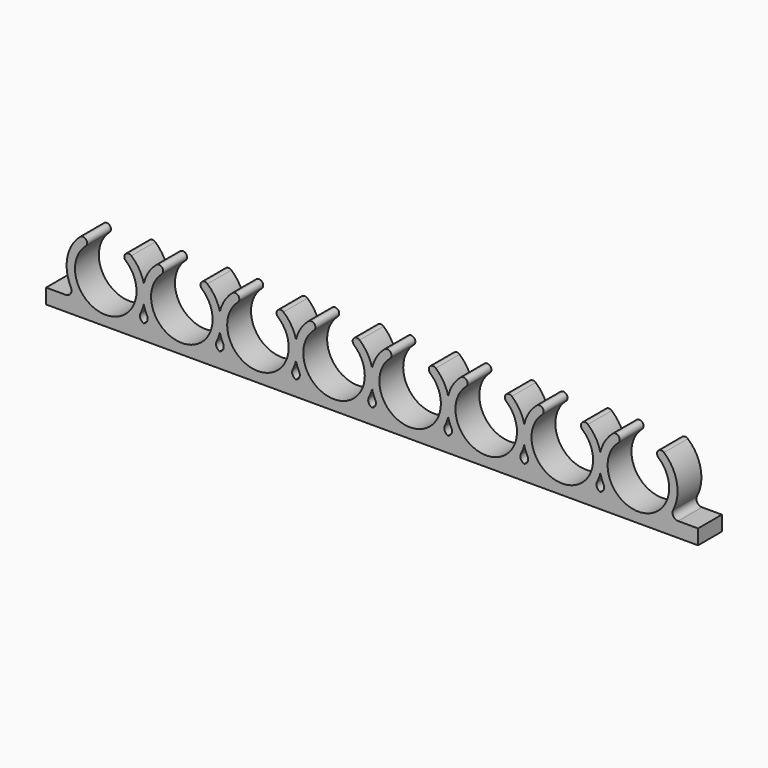
from build123d import *

# Parameters (mm, degrees)
F1_DEPTH = 8


with BuildPart() as f1:
    # F0 (on Front) → F1 (new body)
    with BuildSketch(Plane.XZ):
        with BuildLine():
            Line((0, 4), (0, 0))
            Line((0, 0), (20.4, 0))
            Line((20.4, 0), (20.4, 4))
            Line((20.4, 4), (25.7346354961, 4))
            ThreePointArc((25.7346354961, 4), (25.970242268, 4.0186190736), (26.2, 4.0740140679))
            ThreePointArc((26.2, 4.0740140679), (25.2777810675, 4.9302525059), (25.3321939409, 6.1875))
            ThreePointArc((25.3321939409, 6.1875), (25.8347773232, 7.3220719144), (26.2, 8.5080128411))
            ThreePointArc((26.2, 8.5080128411), (25.9, 11), (26.2, 13.4919871589))
            ThreePointArc((26.2, 13.4919871589), (24.9557969661, 16.4812134334), (22.86, 18.9492389573))
            ThreePointArc((22.86, 18.9492389573), (21.273295826, 18.8325347833), (21.39, 17.2458306093))
            ThreePointArc((21.39, 17.2458306093), (16, 2.75), (10.61, 17.2458306093))
            ThreePointArc((10.61, 17.2458306093), (10.726704174, 18.8325347833), (9.14, 18.9492389573))
            ThreePointArc((9.14, 18.9492389573), (5.6916402149, 12.9969272751), (6.6678060591, 6.1875))
            ThreePointArc((6.6678060591, 6.1875), (6.6155043419, 4.7193752502), (5.3346354961, 4))
            Line((5.3346354961, 4), (0, 4))
        make_face()
        with BuildLine():
            Line((20.4, 4), (20.4, 0))
            Line((20.4, 0), (32, 0))
            Line((32, 0), (32, 4))
            Line((32, 4), (26.6653645039, 4))
            ThreePointArc((26.6653645039, 4), (26.429757732, 4.0186190736), (26.2, 4.0740140679))
            ThreePointArc((26.2, 4.0740140679), (25.970242268, 4.0186190736), (25.7346354961, 4))
            Line((25.7346354961, 4), (20.4, 4))
        make_face()
        with BuildLine():
            Line((32, 4), (32, 0))
            Line((32, 0), (40.8, 0))
            Line((40.8, 0), (40.8, 4))
            Line((40.8, 4), (46.1346354961, 4))
            ThreePointArc((46.1346354961, 4), (46.370242268, 4.0186190736), (46.6, 4.0740140679))
            ThreePointArc((46.6, 4.0740140679), (45.6777810675, 4.9302525059), (45.7321939409, 6.1875))
            ThreePointArc((45.7321939409, 6.1875), (46.2347773232, 7.3220719144), (46.6, 8.5080128411))
            ThreePointArc((46.6, 8.5080128411), (46.3, 11), (46.6, 13.4919871589))
            ThreePointArc((46.6, 13.4919871589), (45.3557969661, 16.4812134334), (43.26, 18.9492389573))
            ThreePointArc((43.26, 18.9492389573), (41.673295826, 18.8325347833), (41.79, 17.2458306093))
            ThreePointArc((41.79, 17.2458306093), (36.4, 2.75), (31.01, 17.2458306093))
            ThreePointArc((31.01, 17.2458306093), (31.126704174, 18.8325347833), (29.54, 18.9492389573))
            ThreePointArc((29.54, 18.9492389573), (27.4442030339, 16.4812134334), (26.2, 13.4919871589))
            ThreePointArc((26.2, 13.4919871589), (26.5, 11), (26.2, 8.5080128411))
            ThreePointArc((26.2, 8.5080128411), (26.5652226768, 7.3220719144), (27.0678060591, 6.1875))
            ThreePointArc((27.0678060591, 6.1875), (27.1222189325, 4.9302525059), (26.2, 4.0740140679))
            ThreePointArc((26.2, 4.0740140679), (26.429757732, 4.0186190736), (26.6653645039, 4))
            Line((26.6653645039, 4), (32, 4))
        make_face()
        with BuildLine():
            Line((40.8, 4), (40.8, 0))
            Line((40.8, 0), (52.4, 0))
            Line((52.4, 0), (52.4, 4))
            Line((52.4, 4), (47.0653645039, 4))
            ThreePointArc((47.0653645039, 4), (46.829757732, 4.0186190736), (46.6, 4.0740140679))
            ThreePointArc((46.6, 4.0740140679), (46.370242268, 4.0186190736), (46.1346354961, 4))
            Line((46.1346354961, 4), (40.8, 4))
        make_face()
        with BuildLine():
            Line((52.4, 4), (52.4, 0))
            Line((52.4, 0), (61.2, 0))
            Line((61.2, 0), (61.2, 4))
            Line((61.2, 4), (66.5346354961, 4))
            ThreePointArc((66.5346354961, 4), (66.770242268, 4.0186190736), (67, 4.0740140679))
            ThreePointArc((67, 4.0740140679), (66.0777810675, 4.9302525059), (66.1321939409, 6.1875))
            ThreePointArc((66.1321939409, 6.1875), (66.6347773232, 7.3220719144), (67, 8.5080128411))
            ThreePointArc((67, 8.5080128411), (66.7, 11), (67, 13.4919871589))
            ThreePointArc((67, 13.4919871589), (65.7557969661, 16.4812134334), (63.66, 18.9492389573))
            ThreePointArc((63.66, 18.9492389573), (62.073295826, 18.8325347833), (62.19, 17.2458306093))
            ThreePointArc((62.19, 17.2458306093), (56.8, 2.75), (51.41, 17.2458306093))
            ThreePointArc((51.41, 17.2458306093), (51.526704174, 18.8325347833), (49.94, 18.9492389573))
            ThreePointArc((49.94, 18.9492389573), (47.8442030339, 16.4812134334), (46.6, 13.4919871589))
            ThreePointArc((46.6, 13.4919871589), (46.9, 11), (46.6, 8.5080128411))
            ThreePointArc((46.6, 8.5080128411), (46.9652226768, 7.3220719144), (47.4678060591, 6.1875))
            ThreePointArc((47.4678060591, 6.1875), (47.5222189325, 4.9302525059), (46.6, 4.0740140679))
            ThreePointArc((46.6, 4.0740140679), (46.829757732, 4.0186190736), (47.0653645039, 4))
            Line((47.0653645039, 4), (52.4, 4))
        make_face()
        with BuildLine():
            Line((61.2, 4), (61.2, 0))
            Line((61.2, 0), (72.8, 0))
            Line((72.8, 0), (72.8, 4))
            Line((72.8, 4), (67.4653645039, 4))
            ThreePointArc((67.4653645039, 4), (67.229757732, 4.0186190736), (67, 4.0740140679))
            ThreePointArc((67, 4.0740140679), (66.770242268, 4.0186190736), (66.5346354961, 4))
            Line((66.5346354961, 4), (61.2, 4))
        make_face()
        with BuildLine():
            Line((72.8, 4), (72.8, 0))
            Line((72.8, 0), (81.6, 0))
            Line((81.6, 0), (81.6, 4))
            Line((81.6, 4), (86.9346354961, 4))
            ThreePointArc((86.9346354961, 4), (87.170242268, 4.0186190736), (87.4, 4.0740140679))
            ThreePointArc((87.4, 4.0740140679), (86.4777810675, 4.9302525059), (86.5321939409, 6.1875))
            ThreePointArc((86.5321939409, 6.1875), (87.0347773232, 7.3220719144), (87.4, 8.5080128411))
            ThreePointArc((87.4, 8.5080128411), (87.1, 11), (87.4, 13.4919871589))
            ThreePointArc((87.4, 13.4919871589), (86.1557969661, 16.4812134334), (84.06, 18.9492389573))
            ThreePointArc((84.06, 18.9492389573), (82.473295826, 18.8325347833), (82.59, 17.2458306093))
            ThreePointArc((82.59, 17.2458306093), (77.2, 2.75), (71.81, 17.2458306093))
            ThreePointArc((71.81, 17.2458306093), (71.926704174, 18.8325347833), (70.34, 18.9492389573))
            ThreePointArc((70.34, 18.9492389573), (68.2442030339, 16.4812134334), (67, 13.4919871589))
            ThreePointArc((67, 13.4919871589), (67.3, 11), (67, 8.5080128411))
            ThreePointArc((67, 8.5080128411), (67.3652226768, 7.3220719144), (67.8678060591, 6.1875))
            ThreePointArc((67.8678060591, 6.1875), (67.9222189325, 4.9302525059), (67, 4.0740140679))
            ThreePointArc((67, 4.0740140679), (67.229757732, 4.0186190736), (67.4653645039, 4))
            Line((67.4653645039, 4), (72.8, 4))
        make_face()
        with BuildLine():
            ThreePointArc((26.2, 13.4919871589), (25.9, 11), (26.2, 8.5080128411))
            ThreePointArc((26.2, 8.5080128411), (26.5, 11), (26.2, 13.4919871589))
        make_face()
        with BuildLine():
            Line((81.6, 4), (81.6, 0))
            Line((81.6, 0), (93.2, 0))
            Line((93.2, 0), (93.2, 4))
            Line((93.2, 4), (87.8653645039, 4))
            ThreePointArc((87.8653645039, 4), (87.629757732, 4.0186190736), (87.4, 4.0740140679))
            ThreePointArc((87.4, 4.0740140679), (87.170242268, 4.0186190736), (86.9346354961, 4))
            Line((86.9346354961, 4), (81.6, 4))
        make_face()
        with BuildLine():
            Line((93.2, 4), (93.2, 0))
            Line((93.2, 0), (102, 0))
            Line((102, 0), (102, 4))
            Line((102, 4), (107.3346354961, 4))
            ThreePointArc((107.3346354961, 4), (107.570242268, 4.0186190736), (107.8, 4.0740140679))
            ThreePointArc((107.8, 4.0740140679), (106.8777810675, 4.9302525059), (106.9321939409, 6.1875))
            ThreePointArc((106.9321939409, 6.1875), (107.4347773232, 7.3220719144), (107.8, 8.5080128411))
            ThreePointArc((107.8, 8.5080128411), (107.5, 11), (107.8, 13.4919871589))
            ThreePointArc((107.8, 13.4919871589), (106.5557969661, 16.4812134334), (104.46, 18.9492389573))
            ThreePointArc((104.46, 18.9492389573), (102.873295826, 18.8325347833), (102.99, 17.2458306093))
            ThreePointArc((102.99, 17.2458306093), (97.6, 2.75), (92.21, 17.2458306093))
            ThreePointArc((92.21, 17.2458306093), (92.326704174, 18.8325347833), (90.74, 18.9492389573))
            ThreePointArc((90.74, 18.9492389573), (88.6442030339, 16.4812134334), (87.4, 13.4919871589))
            ThreePointArc((87.4, 13.4919871589), (87.7, 11), (87.4, 8.5080128411))
            ThreePointArc((87.4, 8.5080128411), (87.7652226768, 7.3220719144), (88.2678060591, 6.1875))
            ThreePointArc((88.2678060591, 6.1875), (88.3222189325, 4.9302525059), (87.4, 4.0740140679))
            ThreePointArc((87.4, 4.0740140679), (87.629757732, 4.0186190736), (87.8653645039, 4))
            Line((87.8653645039, 4), (93.2, 4))
        make_face()
        with BuildLine():
            ThreePointArc((46.6, 13.4919871589), (46.3, 11), (46.6, 8.5080128411))
            ThreePointArc((46.6, 8.5080128411), (46.9, 11), (46.6, 13.4919871589))
        make_face()
        with BuildLine():
            Line((102, 4), (102, 0))
            Line((102, 0), (113.6, 0))
            Line((113.6, 0), (113.6, 4))
            Line((113.6, 4), (108.2653645039, 4))
            ThreePointArc((108.2653645039, 4), (108.029757732, 4.0186190736), (107.8, 4.0740140679))
            ThreePointArc((107.8, 4.0740140679), (107.570242268, 4.0186190736), (107.3346354961, 4))
            Line((107.3346354961, 4), (102, 4))
        make_face()
        with BuildLine():
            Line((113.6, 4), (113.6, 0))
            Line((113.6, 0), (122.4, 0))
            Line((122.4, 0), (122.4, 4))
            Line((122.4, 4), (127.7346354961, 4))
            ThreePointArc((127.7346354961, 4), (127.970242268, 4.0186190736), (128.2, 4.0740140679))
            ThreePointArc((128.2, 4.0740140679), (127.2777810675, 4.9302525059), (127.3321939409, 6.1875))
            ThreePointArc((127.3321939409, 6.1875), (127.8347773232, 7.3220719144), (128.2, 8.5080128411))
            ThreePointArc((128.2, 8.5080128411), (127.9, 11), (128.2, 13.4919871589))
            ThreePointArc((128.2, 13.4919871589), (126.9557969661, 16.4812134334), (124.86, 18.9492389573))
            ThreePointArc((124.86, 18.9492389573), (123.273295826, 18.8325347833), (123.39, 17.2458306093))
            ThreePointArc((123.39, 17.2458306093), (118, 2.75), (112.61, 17.2458306093))
            ThreePointArc((112.61, 17.2458306093), (112.726704174, 18.8325347833), (111.14, 18.9492389573))
            ThreePointArc((111.14, 18.9492389573), (109.0442030339, 16.4812134334), (107.8, 13.4919871589))
            ThreePointArc((107.8, 13.4919871589), (108.1, 11), (107.8, 8.5080128411))
            ThreePointArc((107.8, 8.5080128411), (108.1652226768, 7.3220719144), (108.6678060591, 6.1875))
            ThreePointArc((108.6678060591, 6.1875), (108.7222189325, 4.9302525059), (107.8, 4.0740140679))
            ThreePointArc((107.8, 4.0740140679), (108.029757732, 4.0186190736), (108.2653645039, 4))
            Line((108.2653645039, 4), (113.6, 4))
        make_face()
        with BuildLine():
            ThreePointArc((67, 13.4919871589), (66.7, 11), (67, 8.5080128411))
            ThreePointArc((67, 8.5080128411), (67.3, 11), (67, 13.4919871589))
        make_face()
        with BuildLine():
            Line((122.4, 4), (122.4, 0))
            Line((122.4, 0), (134, 0))
            Line((134, 0), (134, 4))
            Line((134, 4), (128.6653645039, 4))
            ThreePointArc((128.6653645039, 4), (128.429757732, 4.0186190736), (128.2, 4.0740140679))
            ThreePointArc((128.2, 4.0740140679), (127.970242268, 4.0186190736), (127.7346354961, 4))
            Line((127.7346354961, 4), (122.4, 4))
        make_face()
        with BuildLine():
            Line((134, 4), (134, 0))
            Line((134, 0), (142.8, 0))
            Line((142.8, 0), (142.8, 4))
            Line((142.8, 4), (148.1346354961, 4))
            ThreePointArc((148.1346354961, 4), (148.370242268, 4.0186190736), (148.6, 4.0740140679))
            ThreePointArc((148.6, 4.0740140679), (147.6777810675, 4.9302525059), (147.7321939409, 6.1875))
            ThreePointArc((147.7321939409, 6.1875), (148.2347773232, 7.3220719144), (148.6, 8.5080128411))
            ThreePointArc((148.6, 8.5080128411), (148.3, 11), (148.6, 13.4919871589))
            ThreePointArc((148.6, 13.4919871589), (147.3557969661, 16.4812134334), (145.26, 18.9492389573))
            ThreePointArc((145.26, 18.9492389573), (143.673295826, 18.8325347833), (143.79, 17.2458306093))
            ThreePointArc((143.79, 17.2458306093), (138.4, 2.75), (133.01, 17.2458306093))
            ThreePointArc((133.01, 17.2458306093), (133.126704174, 18.8325347833), (131.54, 18.9492389573))
            ThreePointArc((131.54, 18.9492389573), (129.4442030339, 16.4812134334), (128.2, 13.4919871589))
            ThreePointArc((128.2, 13.4919871589), (128.5, 11), (128.2, 8.5080128411))
            ThreePointArc((128.2, 8.5080128411), (128.5652226768, 7.3220719144), (129.0678060591, 6.1875))
            ThreePointArc((129.0678060591, 6.1875), (129.1222189325, 4.9302525059), (128.2, 4.0740140679))
            ThreePointArc((128.2, 4.0740140679), (128.429757732, 4.0186190736), (128.6653645039, 4))
            Line((128.6653645039, 4), (134, 4))
        make_face()
        with BuildLine():
            ThreePointArc((87.4, 13.4919871589), (87.1, 11), (87.4, 8.5080128411))
            ThreePointArc((87.4, 8.5080128411), (87.7, 11), (87.4, 13.4919871589))
        make_face()
        with BuildLine():
            Line((142.8, 4), (142.8, 0))
            Line((142.8, 0), (154.4, 0))
            Line((154.4, 0), (154.4, 4))
            Line((154.4, 4), (149.0653645039, 4))
            ThreePointArc((149.0653645039, 4), (148.829757732, 4.0186190736), (148.6, 4.0740140679))
            ThreePointArc((148.6, 4.0740140679), (148.370242268, 4.0186190736), (148.1346354961, 4))
            Line((148.1346354961, 4), (142.8, 4))
        make_face()
        with BuildLine():
            Line((154.4, 4), (154.4, 0))
            Line((154.4, 0), (174.8, 0))
            Line((174.8, 0), (174.8, 4))
            Line((174.8, 4), (169.4653645039, 4))
            ThreePointArc((169.4653645039, 4), (168.1844956581, 4.7193752502), (168.1321939409, 6.1875))
            ThreePointArc((168.1321939409, 6.1875), (169.1083597851, 12.9969272751), (165.66, 18.9492389573))
            ThreePointArc((165.66, 18.9492389573), (164.073295826, 18.8325347833), (164.19, 17.2458306093))
            ThreePointArc((164.19, 17.2458306093), (158.8, 2.75), (153.41, 17.2458306093))
            ThreePointArc((153.41, 17.2458306093), (153.526704174, 18.8325347833), (151.94, 18.9492389573))
            ThreePointArc((151.94, 18.9492389573), (149.8442030339, 16.4812134334), (148.6, 13.4919871589))
            ThreePointArc((148.6, 13.4919871589), (148.9, 11), (148.6, 8.5080128411))
            ThreePointArc((148.6, 8.5080128411), (148.9652226768, 7.3220719144), (149.4678060591, 6.1875))
            ThreePointArc((149.4678060591, 6.1875), (149.5222189325, 4.9302525059), (148.6, 4.0740140679))
            ThreePointArc((148.6, 4.0740140679), (148.829757732, 4.0186190736), (149.0653645039, 4))
            Line((149.0653645039, 4), (154.4, 4))
        make_face()
        with BuildLine():
            ThreePointArc((107.8, 13.4919871589), (107.5, 11), (107.8, 8.5080128411))
            ThreePointArc((107.8, 8.5080128411), (108.1, 11), (107.8, 13.4919871589))
        make_face()
        with BuildLine():
            ThreePointArc((128.2, 13.4919871589), (127.9, 11), (128.2, 8.5080128411))
            ThreePointArc((128.2, 8.5080128411), (128.5, 11), (128.2, 13.4919871589))
        make_face()
        with BuildLine():
            ThreePointArc((148.6, 13.4919871589), (148.3, 11), (148.6, 8.5080128411))
            ThreePointArc((148.6, 8.5080128411), (148.9, 11), (148.6, 13.4919871589))
        make_face()
    extrude(amount=F1_DEPTH)


solid = f1.part
